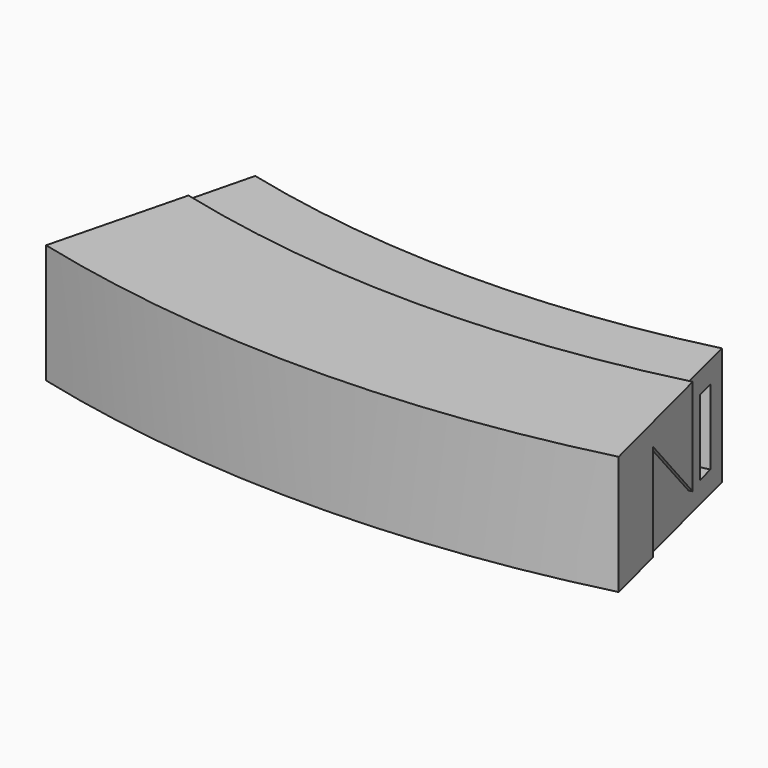
from build123d import *

# Parameters (mm, degrees)
SKETCH_W        = 3.6
SKETCH_H        = 14
POCKET_DEPTH    = 22.001
POCKET001_DEPTH = 22.201


with BuildPart() as chairmount:
    # Sketch → Revolution (revolve)
    with BuildSketch(Plane.YZ):
        Polygon((-205.6, 0), (-205.6, 22), (-191.6, 8), (-191.6, 22), (-180, 22), (-180, 4), (-180, 0), align=None)
        with Locations((-185.8, 11)):
            Rectangle(SKETCH_W, SKETCH_H, mode=Mode.SUBTRACT)
    revolve(axis=Axis((0, 0, 0), (0, 0, 1)))

    # Sketch001 → Pocket (cut, through all)
    with BuildSketch(Plane.XY):
        with BuildLine():
            ThreePointArc((49.6866666666, -199.5058774959), (0, 205.5999999997), (-49.6866666666, -199.5058774959))
            Line((0, 0), (-49.6866666665, -199.5058774959))
            Line((0, 0), (49.6866666665, -199.5058774959))
        make_face()
    extrude(amount=POCKET_DEPTH, mode=Mode.SUBTRACT)


with BuildPart() as extmount:
    # Sketch002 → Revolution001 (revolve)
    with BuildSketch(Plane.YZ):
        Polygon((-205.7, 18.2), (-191.7, 4.2), (-191.7, 18.2), (-191.7, 22.2), (-217.7, 22.2), (-217.7, 0), (-205.7, 0), align=None)
    revolve(axis=Axis((0, 0, 0), (0, 0, 1)))

    # Sketch003 → Pocket001 (cut, through all)
    with BuildSketch(Plane.XY):
        with BuildLine():
            ThreePointArc((53.3745435576, -211.0555569039), (0, 217.7), (-53.3745435576, -211.0555569039))
            Line((0, 0), (-53.3745435576, -211.0555569039))
            Line((0, 0), (53.3745435576, -211.0555569039))
        make_face()
    extrude(amount=POCKET001_DEPTH, mode=Mode.SUBTRACT)


solid = Compound([chairmount.part, extmount.part])
